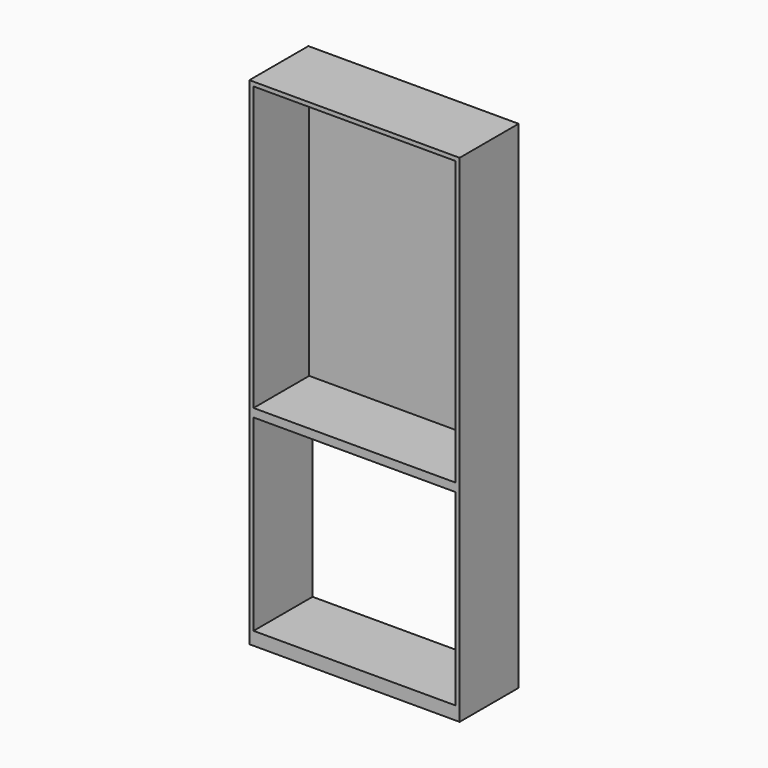
from build123d import *

# Parameters (mm, degrees)
F0_W      = 958
F0_H      = 2263
F1_DEPTH  = 336
F2_W      = 920
F2_H      = 856
F2_H_2    = 1290
F3_DEPTH  = 317
F3_FACE_W = 920
F3_FACE_H = 856
F4_DEPTH  = 25


with BuildPart() as f1:
    # F0 (on Front) → F1 (new body)
    with BuildSketch(Plane.XZ):
        with Locations((479, 1131.5)):
            Rectangle(F0_W, F0_H)
    extrude(amount=F1_DEPTH)

    # F2 (on face) → F3 (cut)
    with BuildSketch(Plane.XZ.offset(336)):
        with Locations((479, 488)):
            Rectangle(F2_W, F2_H)
        with Locations((479, 1599)):
            Rectangle(F2_W, F2_H_2)
    extrude(amount=-F3_DEPTH, mode=Mode.SUBTRACT)

    # F3_face (on face) → F4 (cut)
    with BuildSketch(Plane(origin=(479, -19, 488), x_dir=(1, 0, 0), z_dir=(0, -1, 0))):
        Rectangle(F3_FACE_W, F3_FACE_H)
    extrude(amount=-F4_DEPTH, mode=Mode.SUBTRACT)


solid = f1.part
